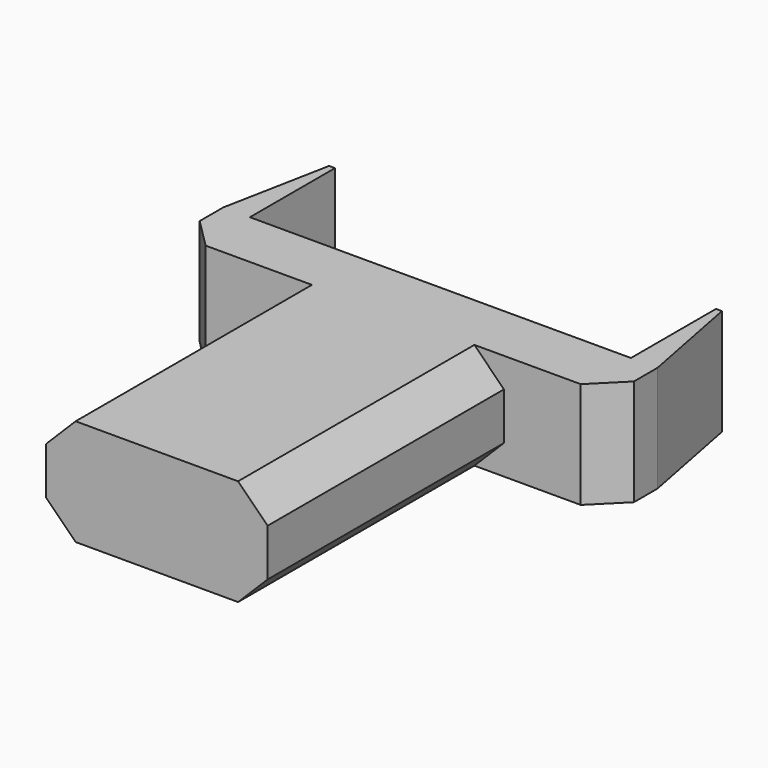
from build123d import *

# Parameters (mm, degrees)
F0_W     = 38.1
F0_H     = 50.8
F1_DEPTH = 18.288
F2_SIZE  = 5.08


with BuildPart() as f1:
    # F0 (on Top) → F1 (new body)
    with BuildSketch(Plane.XY):
        with Locations((32.766, -53.848)):
            Rectangle(F0_W, F0_H)
        Polygon((65.532, -18.288), (0, -18.288), (0, 0), (-1.016, 0), (-4.572, -18.288), (-4.572, -28.448), (13.716, -28.448), (51.816, -28.448), (70.104, -28.448), (70.104, -18.288), (66.548, 0), (65.532, 0), align=None)
    extrude(amount=F1_DEPTH)

    # F2
    f2_edges = [f1.edges().sort_by_distance(p)[0] for p in [
        (13.716, -53.848, 18.288),
        (51.816, -53.848, 18.288),
        (51.816, -53.848, 0),
        (13.716, -53.848, 0),
        (-4.572, -28.448, 9.144),
        (70.104, -28.448, 9.144),
    ]]
    chamfer(f2_edges, length=F2_SIZE)


solid = f1.part
